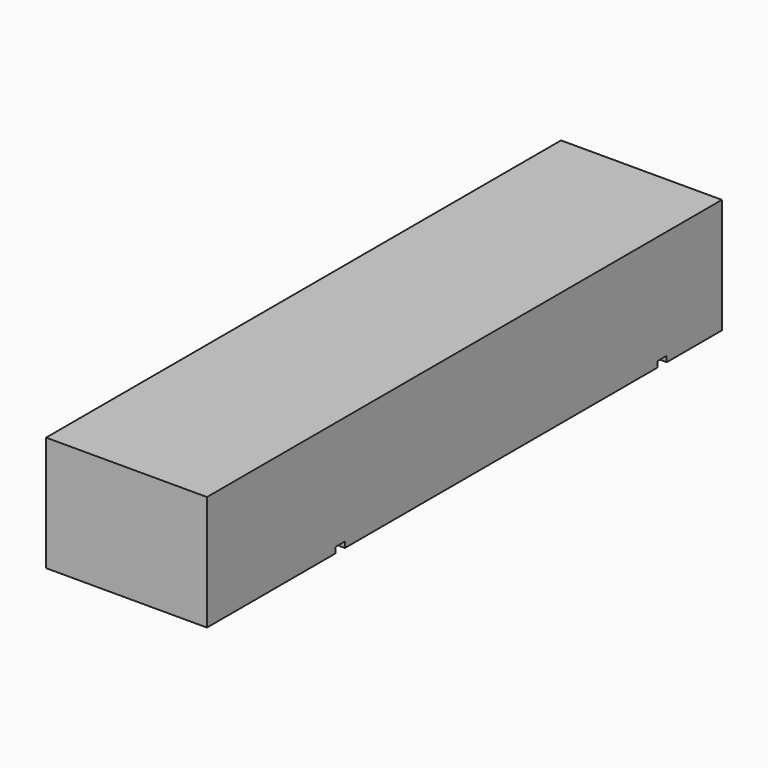
from build123d import *

# Parameters (mm, degrees)
F0_W     = 44.45
F0_H     = 31.75
F1_DEPTH = 177.8
F3_DEPTH = 44.451


with BuildPart() as f1:
    # F0 (on Front) → F1 (new body)
    with BuildSketch(Plane.XZ):
        Rectangle(F0_W, F0_H)
    extrude(amount=-F1_DEPTH)

    # F2 (on face) → F3 (cut, through all)
    with BuildSketch(Plane.YZ.offset(22.225)):
        with BuildLine():
            ThreePointArc((46.0375, -14.2875), (44.914968, -14.752468), (44.45, -15.875))
            Line((44.45, -15.875), (47.625, -15.875))
            ThreePointArc((47.625, -15.875), (47.160032, -14.752468), (46.0375, -14.2875))
        make_face()
        with BuildLine():
            ThreePointArc((46.0375, -14.2875), (47.160032, -14.752468), (47.625, -15.875))
            Line((47.625, -15.875), (47.625, -14.2875))
            Line((47.625, -14.2875), (46.0375, -14.2875))
        make_face()
        with BuildLine():
            Line((44.45, -14.2875), (44.45, -15.875))
            ThreePointArc((44.45, -15.875), (44.914968, -14.752468), (46.0375, -14.2875))
            Line((46.0375, -14.2875), (44.45, -14.2875))
        make_face()
        with BuildLine():
            ThreePointArc((157.1625, -14.2875), (156.039968, -14.752468), (155.575, -15.875))
            Line((155.575, -15.875), (158.75, -15.875))
            ThreePointArc((158.75, -15.875), (158.285032, -14.752468), (157.1625, -14.2875))
        make_face()
        with BuildLine():
            ThreePointArc((157.1625, -14.2875), (158.285032, -14.752468), (158.75, -15.875))
            Line((158.75, -15.875), (158.75, -14.2875))
            Line((158.75, -14.2875), (157.1625, -14.2875))
        make_face()
        with BuildLine():
            Line((155.575, -14.2875), (155.575, -15.875))
            ThreePointArc((155.575, -15.875), (156.039968, -14.752468), (157.1625, -14.2875))
            Line((157.1625, -14.2875), (155.575, -14.2875))
        make_face()
    extrude(amount=-F3_DEPTH, mode=Mode.SUBTRACT)


solid = f1.part
